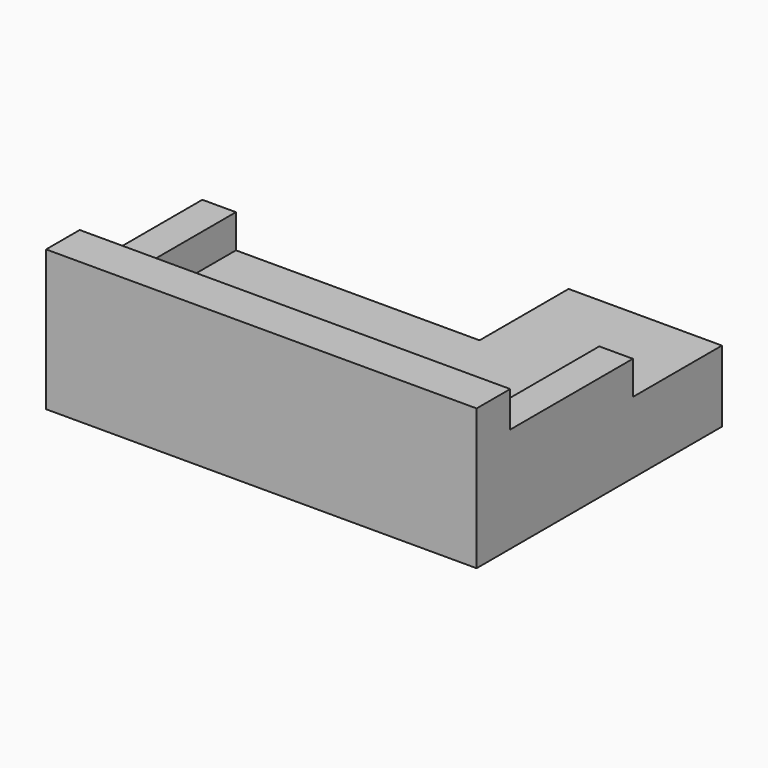
from build123d import *

# Parameters (mm, degrees)
F1_DEPTH = 431.8
F2_W     = 2603.5
F2_H     = 254
F3_DEPTH = 419.1
F4_W     = 203.2
F4_H     = 927.1
F5_DEPTH = 203.2


with BuildPart() as f1:
    # F0 (on Top) → F1 (new body)
    with BuildSketch(Plane.XY):
        Polygon((374.65, 254), (-1301.75, 254), (-1301.75, -927.1), (1301.75, -927.1), (1301.75, 927.1), (374.65, 927.1), align=None)
    extrude(amount=F1_DEPTH)

    # F2 (on face) → F3 (join)
    with BuildSketch(Plane.XY.offset(431.8)):
        with Locations((0, -800.1)):
            Rectangle(F2_W, F2_H)
    extrude(amount=F3_DEPTH)

    # F4 (on face) → F5 (join)
    with BuildSketch(Plane.XY.offset(431.8)):
        with Locations((1200.15, -209.55)):
            Rectangle(F4_W, F4_H)
        with Locations((-1200.15, -209.55)):
            Rectangle(F4_W, F4_H)
    extrude(amount=F5_DEPTH)


solid = f1.part
